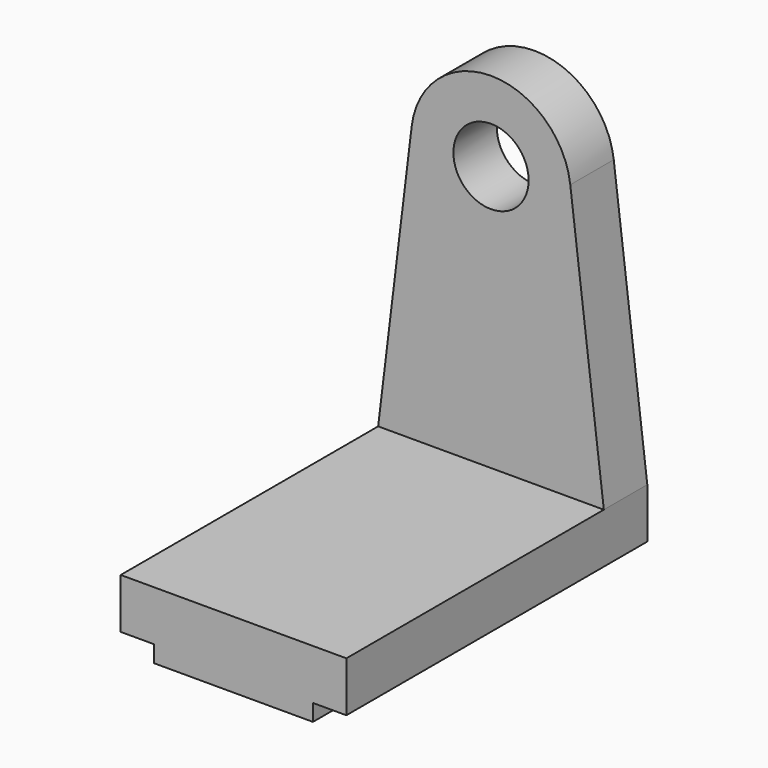
from build123d import *

# Parameters (mm, degrees)
F1_DEPTH = 2286
F0_R     = 228.6
F2_DEPTH = 330.2


with BuildPart() as f1:
    # F0 (on Front) → F1 (new body)
    with BuildSketch(Plane.XZ):
        Polygon((-405.41529, -219.205609), (-405.41529, -320.805609), (559.78471, -320.805609), (559.78471, -219.205609), (762.98471, -219.205609), (762.98471, 85.594391), (-608.61529, 85.594391), (-608.61529, -219.205609), align=None)
    extrude(amount=F1_DEPTH)

    # F0 (on Front) → F2 (join)
    with BuildSketch(Plane.XZ):
        with BuildLine():
            Line((-404.680331, 1757.777113), (-608.61529, 85.594391))
            Line((-608.61529, 85.594391), (762.98471, 85.594391))
            Line((762.98471, 85.594391), (559.049751, 1757.777113))
            ThreePointArc((559.049751, 1757.777113), (77.18471, 2184.44548), (-404.680331, 1757.777113))
        make_face()
        with Locations((77.18471, 1699.010134)):
            Circle(F0_R, mode=Mode.SUBTRACT)
    extrude(amount=F2_DEPTH)


solid = f1.part
